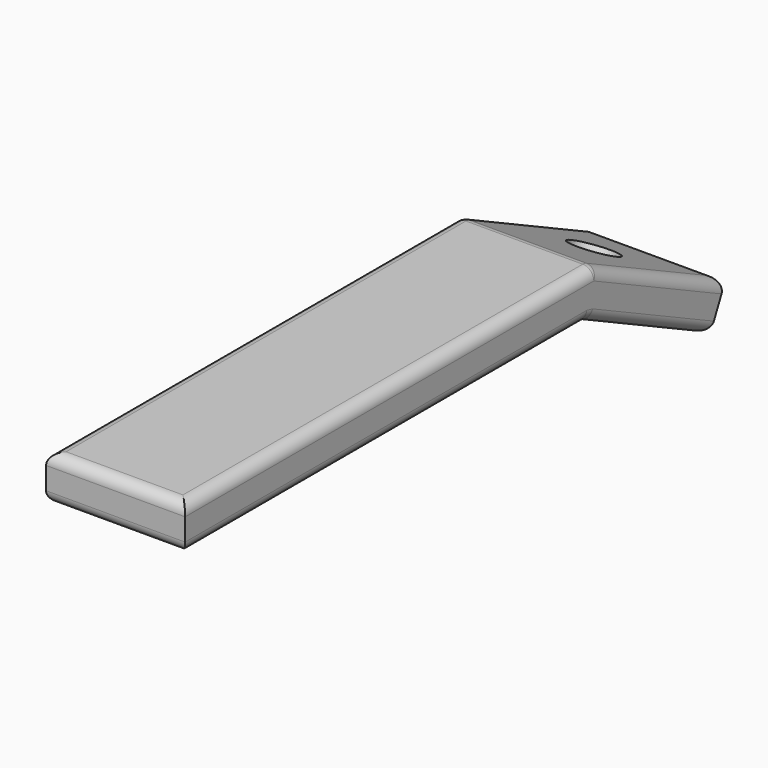
from build123d import *

# Parameters (mm, degrees)
F1_DEPTH = 12.5
F2_R     = 2.05
F3_DEPTH = 25
F4_R     = 1


with BuildPart() as f1:
    # F0 (on Right) → F1 (new body)
    with BuildSketch(Plane.YZ):
        Polygon((-45, 0), (0, 0), (0.431175, -0.097732), (13.965198, -6.56536), (15.689899, -2.956287), (1.133319, 4), (-45, 4), align=None)
    extrude(amount=F1_DEPTH)

    # F2 (on face) → F3 (cut)
    with BuildSketch(Plane(origin=(0, 1.76684, 3.697253), x_dir=(1, 0, 0), z_dir=(0, 0.431175, 0.902268))):
        with Locations((6.25, 7.715588)):
            Circle(F2_R)
    extrude(amount=-F3_DEPTH, mode=Mode.SUBTRACT)

    # F4
    f4_edges = [f1.edges().sort_by_distance(p)[0] for p in [
        (6.25, 1.133319, 4),
        (6.25, -45, 4),
        (0, -21.933341, 4),
        (12.5, -21.933341, 4),
        (12.5, 8.411609, 0.521856),
        (6.25, 15.689899, -2.956287),
        (0, 8.411609, 0.521856),
        (12.5, -22.5, 0),
        (0, -22.5, 0),
        (6.25, -45, 0),
        (12.5, 7.198187, -3.331546),
        (0, 7.198187, -3.331546),
        (6.25, 13.965198, -6.56536),
        (12.5, 0.215588, -0.048866),
        (0, 0.215588, -0.048866),
    ]]
    fillet(f4_edges, radius=F4_R)


solid = f1.part
